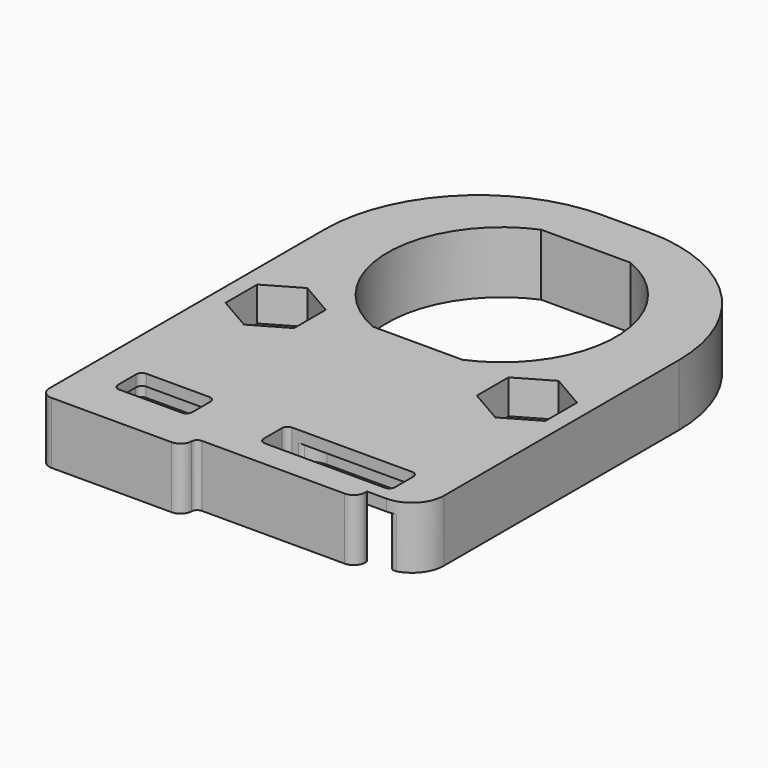
from build123d import *

# Parameters (mm, degrees)
SKETCH_R        = 1.55
SKETCH_W        = 6.5
SKETCH_H        = 3
SKETCH_W_2      = 11.5
PAD_DEPTH       = 5.4
SKETCH005_W     = 25.7
SKETCH005_H     = 13
POCKET_DEPTH    = 3
SKETCH006_R     = 1.8
POCKET001_DEPTH = 1.4
POCKET002_DEPTH = 3
FILLET_R        = 1
FILLET001_R     = 0.5


with BuildPart() as part:
    # Sketch → Pad (new body)
    with BuildSketch(Plane.XY):
        with BuildLine():
            Line((-2, 13.5), (2, 13.5))
            ThreePointArc((15.5, 0), (11.545942, 9.545942), (2, 13.5))
            Line((15.5, 0), (15.5, -25.7))
            ThreePointArc((12.7, -28.5), (14.679899, -27.679899), (15.5, -25.7))
            Line((11, -28.5), (12.7, -28.5))
            Line((11, -29.7), (11, -28.5))
            Line((-3, -29.7), (11, -29.7))
            Line((-3, -31.15), (-3, -29.7))
            Line((-3, -31.15), (-15.5, -31.15))
            Line((-15.5, -31.15), (-15.5, 0))
            ThreePointArc((-2, 13.5), (-11.545942, 9.545942), (-15.5, 0))
        make_face()
        with Locations((-11, -11)):
            Circle(SKETCH_R, mode=Mode.SUBTRACT)
        with Locations((11, -11)):
            Circle(SKETCH_R, mode=Mode.SUBTRACT)
        with BuildLine():
            ThreePointArc((-3.919184, 9.2), (-10, 0), (-3.919184, -9.2))
            Line((3.919184, -9.2), (-3.919184, -9.2))
            ThreePointArc((3.919184, -9.2), (10, 0), (3.919184, 9.2))
            Line((-3.919184, 9.2), (3.919184, 9.2))
        make_face(mode=Mode.SUBTRACT)
        with Locations((-8.91, -25.81)):
            Rectangle(SKETCH_W, SKETCH_H, mode=Mode.SUBTRACT)
        with Locations((6.35, -25.81)):
            Rectangle(SKETCH_W_2, SKETCH_H, mode=Mode.SUBTRACT)
    extrude(amount=PAD_DEPTH)

    # Sketch005 (on Face26 of Pad) → Pocket (cut)
    with BuildSketch(Plane(origin=(0, 0, 0), x_dir=(1, 0, 0), z_dir=(0, 0, -1))):
        with Locations((0, 22)):
            Rectangle(SKETCH005_W, SKETCH005_H)
    extrude(amount=-POCKET_DEPTH, mode=Mode.SUBTRACT)

    # Sketch006 (on Face32 of Pocket) → Pocket001 (cut)
    with BuildSketch(Plane(origin=(0, 0, 3), x_dir=(1, 0, 0), z_dir=(0, 0, -1))):
        with Locations((0, 22)):
            Circle(SKETCH006_R)
        with BuildLine():
            Line((-12.85, 20.5), (-3.5, 20.5))
            ThreePointArc((-1.5, 18.5), (-2.085786, 19.914214), (-3.5, 20.5))
            Line((-1.5, 18.5), (-1.5, 15.5))
            Line((-1.5, 15.5), (-12.85, 15.5))
            Line((-12.85, 15.5), (-12.85, 20.5))
        make_face()
        with BuildLine():
            Line((1.5, 15.5), (12.85, 15.5))
            Line((12.85, 15.5), (12.85, 20.5))
            Line((12.85, 20.5), (3.5, 20.5))
            ThreePointArc((3.5, 20.5), (2.085786, 19.914214), (1.5, 18.5))
            Line((1.5, 18.5), (1.5, 15.5))
        make_face()
        with BuildLine():
            Line((-12.85, 23.5), (-3.5, 23.5))
            ThreePointArc((-3.5, 23.5), (-2.085786, 24.085786), (-1.5, 25.5))
            Line((-1.5, 25.5), (-1.5, 28.5))
            Line((-1.5, 28.5), (-12.85, 28.5))
            Line((-12.85, 28.5), (-12.85, 23.5))
        make_face()
        with BuildLine():
            Line((1.5, 28.5), (12.85, 28.5))
            Line((12.85, 28.5), (12.85, 23.5))
            Line((12.85, 23.5), (3.5, 23.5))
            ThreePointArc((1.5, 25.5), (2.085786, 24.085786), (3.5, 23.5))
            Line((1.5, 25.5), (1.5, 28.5))
        make_face()
    extrude(amount=-POCKET001_DEPTH, mode=Mode.SUBTRACT)

    # Sketch001 (on Face5 of Pocket001) → Pocket002 (cut)
    with BuildSketch(Plane.XY.offset(5.4)):
        Polygon((-8, -12.732051), (-8, -9.267949), (-11, -7.535898), (-14, -9.267949), (-14, -12.732051), (-11, -14.464102), align=None)
        Polygon((14, -12.732051), (14, -9.267949), (11, -7.535898), (8, -9.267949), (8, -12.732051), (11, -14.464102), align=None)
    extrude(amount=-POCKET002_DEPTH, mode=Mode.SUBTRACT)

    # Fillet
    fillet_edges = [part.edges().sort_by_distance(p)[0] for p in [
        (-15.5, -31.15, 2.7),
        (-3, -31.15, 2.7),
        (11, -29.7, 2.7),
    ]]
    fillet(fillet_edges, radius=FILLET_R)

    # Fillet001
    fillet001_edges = [part.edges().sort_by_distance(p)[0] for p in [
        (12.85, -23.5, 3.7),
        (12.85, -20.5, 3.7),
        (-12.85, -20.5, 3.7),
        (-12.85, -23.5, 3.7),
        (-1.8, -22, 4.4),
        (0.6, -27.31, 4.2),
        (0.6, -24.31, 4.2),
        (1.892549, -24.31, 3.7),
        (-3, -29.7, 2.7),
        (12.1, -27.31, 4.9),
        (12.1, -24.31, 4.9),
        (-5.66, -27.31, 4.9),
        (-5.66, -24.31, 4.9),
        (-12.16, -24.31, 4.9),
        (-12.16, -27.31, 4.9),
        (-12.85, -15.5, 1.5),
        (12.85, -28.495979, 1.5),
        (9.45, -11, 0),
        (-12.55, -11, 0),
    ]]
    fillet(fillet001_edges, radius=FILLET001_R)


solid = part.part
